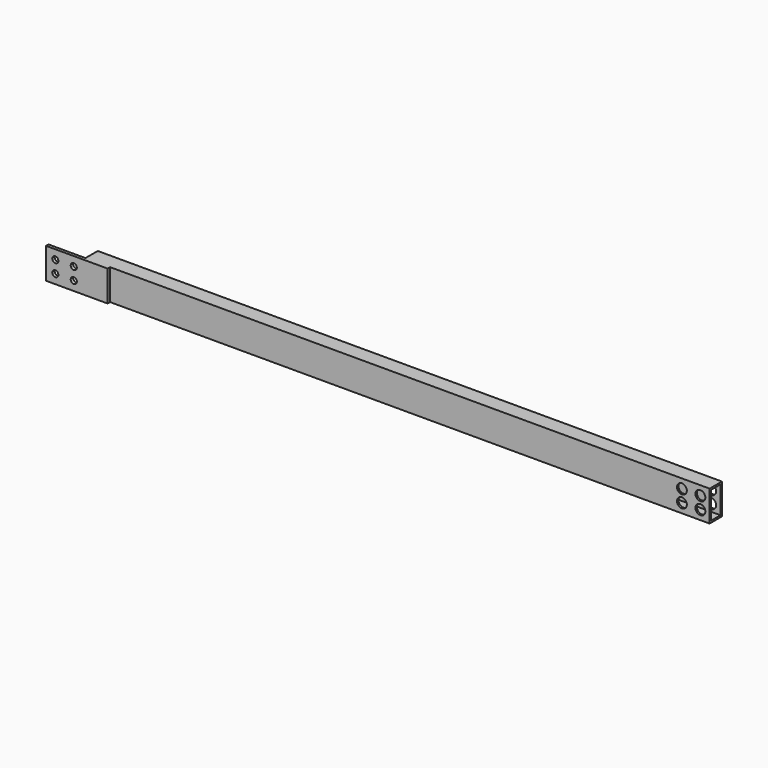
from build123d import *

# Parameters (mm, degrees)
F0_W     = 1014
F0_H     = 50
F1_DEPTH = 25
F2_R     = 8
F3_DEPTH = 25
F4_W     = 19
F4_H     = 44
F5_DEPTH = 1014
F6_W     = 100
F6_H     = 50
F6_R     = 5
F7_DEPTH = 5


with BuildPart() as f1:
    # F0 (on Front) → F1 (new body)
    with BuildSketch(Plane.XZ):
        Rectangle(F0_W, F0_H)
    extrude(amount=F1_DEPTH)

    # F2 (on face) → F3 (cut)
    with BuildSketch(Plane.XZ.offset(25)):
        with Locations((462, 10)):
            Circle(F2_R)
        with Locations((462, -10)):
            Circle(F2_R)
        with Locations((492, 10)):
            Circle(F2_R)
        with Locations((492, -10)):
            Circle(F2_R)
    extrude(amount=-F3_DEPTH, mode=Mode.SUBTRACT)

    # F4 (on face) → F5 (cut)
    with BuildSketch(Plane.YZ.offset(507)):
        with Locations((-12.5, 0)):
            Rectangle(F4_W, F4_H)
    extrude(amount=-F5_DEPTH, mode=Mode.SUBTRACT)

    # F6 (on face) → F7 (join)
    with BuildSketch(Plane.XZ.offset(25)):
        with Locations((-517, 0)):
            Rectangle(F6_W, F6_H)
        with Locations((-552, -10)):
            Circle(F6_R, mode=Mode.SUBTRACT)
        with Locations((-522, -10)):
            Circle(F6_R, mode=Mode.SUBTRACT)
        with Locations((-552, 10)):
            Circle(F6_R, mode=Mode.SUBTRACT)
        with Locations((-522, 10)):
            Circle(F6_R, mode=Mode.SUBTRACT)
    extrude(amount=F7_DEPTH)


solid = f1.part
